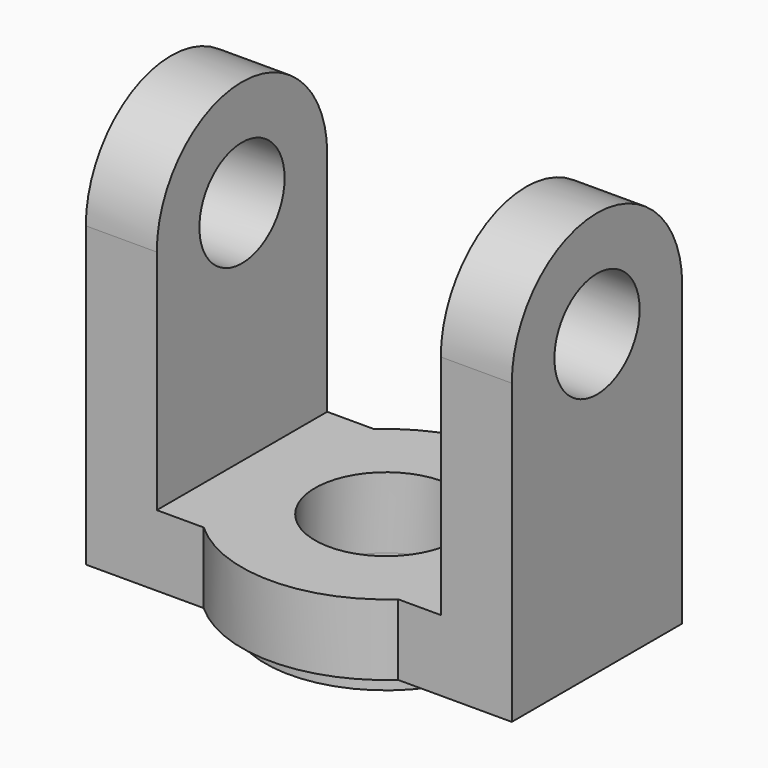
from build123d import *

# Parameters (mm, degrees)
F0_W           = 60
F0_H           = 30
F1_DEPTH       = 10
F2_R           = 10
F3_DEPTH       = 10
F4_R           = 10
F5_DEPTH       = 10
F5_DEPTH_BACK  = 17.75
F6_R           = 17
F7_DEPTH       = 3
F8_R           = 10
F9_DEPTH       = 25
F10_W          = 10
F10_H          = 32
F11_DEPTH      = 5.0168695525
F11_DEPTH_BACK = 24.9831304475
F13_START      = 19.7067023069
F13_DEPTH      = 10
F14_START      = -20.2932976931
F14_DEPTH      = 10
F15_R          = 7.5
F16_DEPTH      = 44.75
F16_DEPTH_BACK = 50.75


with BuildPart() as f1:
    # F0 (on Top) → F1 (new body)
    with BuildSketch(Plane.XY):
        with Locations((-0.2932976931, 9.9831304475)):
            Rectangle(F0_W, F0_H)
    extrude(amount=F1_DEPTH)

    # F2 (on Top) → F3 (join)
    with BuildSketch(Plane.XY):
        with BuildLine():
            ThreePointArc((13.6898891806, 24.9831304475), (0, 30.2910861737), (-13.6898891806, 24.9831304475))
            Line((-13.6898891806, 24.9831304475), (13.6898891806, 24.9831304475))
        make_face()
        with BuildLine():
            Line((13.6898891806, 24.9831304475), (-13.6898891806, 24.9831304475))
            ThreePointArc((-13.6898891806, 24.9831304475), (-18.2871818958, 18.8144408875), (-20.2599732919, 11.3783178851))
            ThreePointArc((-20.2599732919, 11.3783178851), (-18.8506984819, 2.4290433073), (-13.6898891806, -5.0168695525))
            Line((-13.6898891806, -5.0168695525), (13.6898891806, -5.0168695525))
            ThreePointArc((13.6898891806, -5.0168695525), (18.6883022663, 2.0357771662), (20.300634623, 10.52838239))
            ThreePointArc((20.300634623, 10.52838239), (18.4681851426, 18.4293842511), (13.6898891806, 24.9831304475))
        make_face()
        with Locations((0, 9.9831304475)):
            Circle(F2_R, mode=Mode.SUBTRACT)
        with BuildLine():
            Line((13.6898891806, -5.0168695525), (-13.6898891806, -5.0168695525))
            ThreePointArc((-13.6898891806, -5.0168695525), (0, -10.3248252786), (13.6898891806, -5.0168695525))
        make_face()
    extrude(amount=F3_DEPTH)

    # F4 (on Top) → F5 (cut, two sides)
    with BuildSketch(Plane.XY) as f5_sk:
        with Locations((0, 9.9831304475)):
            Circle(F4_R)
    extrude(amount=F5_DEPTH, mode=Mode.SUBTRACT)
    extrude(f5_sk.sketch, amount=-F5_DEPTH_BACK, mode=Mode.SUBTRACT)

    # F6 (on Top) → F7 (join)
    with BuildSketch(Plane.XY):
        with Locations((0, 9.9831304475)):
            Circle(F6_R)
    extrude(amount=-F7_DEPTH)

    # F8 (on Top) → F9 (cut)
    with BuildSketch(Plane.XY):
        with Locations((0, 9.9831304475)):
            Circle(F8_R)
    extrude(amount=-F9_DEPTH, mode=Mode.SUBTRACT)

    # F10 (on Front) → F11 (join, two sides)
    with BuildSketch(Plane.XZ) as f11_sk:
        with Locations((-25.2932976931, 26)):
            Rectangle(F10_W, F10_H)
        with Locations((24.7067023069, 26)):
            Rectangle(F10_W, F10_H)
    extrude(amount=F11_DEPTH)
    extrude(f11_sk.sketch, amount=-F11_DEPTH_BACK)

    # F12 (on Right) → F13 (join)
    with BuildSketch(Plane.YZ.offset(F13_START)):
        with BuildLine():
            ThreePointArc((24.9831304473, 42), (9.9831304473, 57), (-5.0168695527, 42))
            Line((-5.0168695527, 42), (24.9831304473, 42))
        make_face()
    extrude(amount=F13_DEPTH)

    # F12 (on Right) → F14 (join)
    with BuildSketch(Plane.YZ.offset(F14_START)):
        with BuildLine():
            ThreePointArc((24.9831304473, 42), (9.9831304473, 57), (-5.0168695527, 42))
            Line((-5.0168695527, 42), (24.9831304473, 42))
        make_face()
    extrude(amount=-F14_DEPTH)

    # F15 (on Right) → F16 (cut, two sides)
    with BuildSketch(Plane.YZ) as f16_sk:
        with Locations((9.9831304473, 42)):
            Circle(F15_R)
    extrude(amount=-F16_DEPTH, mode=Mode.SUBTRACT)
    extrude(f16_sk.sketch, amount=F16_DEPTH_BACK, mode=Mode.SUBTRACT)


solid = f1.part
